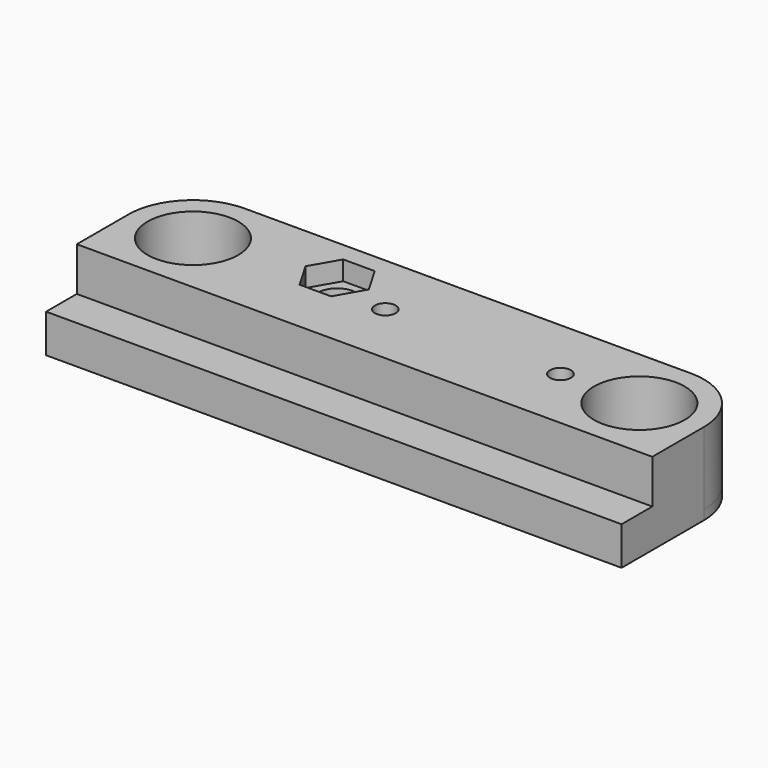
from build123d import *

# Parameters (mm, degrees)
F0_W      = 95.1874652
F0_H      = 27.6999954
F0_R      = 6.7062477
F1_DEPTH  = 1.5875
F2_R      = 10.6749977
F3_R      = 7.5
F4_DEPTH  = 12
F5_DEPTH  = 4.7625
F6_R      = 1.7272
F6_R_2    = 3.175
F7_DEPTH  = 13.5875
F8_R      = 3.96875
F9_DEPTH  = 7.2375014
F11_DEPTH = 3.175


with BuildPart() as f1:
    # F0 (on Top) → F1 (new body)
    with BuildSketch(Plane.XY):
        with Locations((47.5937326, -13.8499977)):
            Rectangle(F0_W, F0_H)
        with Locations((10.6749977, -10.6749977)):
            Circle(F0_R, mode=Mode.SUBTRACT)
        with Locations((84.5124675, -10.6749977)):
            Circle(F0_R, mode=Mode.SUBTRACT)
    extrude(amount=F1_DEPTH)

    # F2
    f2_edges = [f1.edges().sort_by_distance(p)[0] for p in [
        (0, 0, 0.79375),
        (95.187465, 0, 0.79375),
    ]]
    fillet(f2_edges, radius=F2_R)

    # F3 (on face) → F4 (join)
    with BuildSketch(Plane.XY.offset(1.5875)):
        with BuildLine():
            Line((0, -10.6749977), (0, -21.3499954))
            Line((0, -21.3499954), (95.1874652, -21.3499954))
            Line((95.1874652, -21.3499954), (95.1874652, -10.6749977))
            ThreePointArc((95.1874652, -10.6749977), (92.0608307628, -3.1266344372), (84.5124675, 0))
            Line((84.5124675, 0), (10.6749977, 0))
            ThreePointArc((10.6749977, 0), (3.1266344372, -3.1266344372), (0, -10.6749977))
        make_face()
        with Locations((10.6749977, -10.6749977)):
            Circle(F3_R, mode=Mode.SUBTRACT)
        with Locations((84.5124675, -10.6749977)):
            Circle(F3_R, mode=Mode.SUBTRACT)
    extrude(amount=F4_DEPTH)

    # F5 (add): a face of the model
    f5_faces = [f1.faces().sort_by_distance(p)[0] for p in [
        (47.5937326, -24.5249954, 1.5875),
    ]]
    extrude(f5_faces, amount=F5_DEPTH)

    # F6 (on face) → F7 (cut, through all)
    with BuildSketch(Plane.XY.offset(13.5875)):
        with Locations((42.4937295646, -10.6749977)):
            Circle(F6_R)
        with Locations((71.4562175, -10.6749977)):
            Circle(F6_R)
        with Locations((32.1375151, -7.6956539)):
            Circle(F6_R_2)
    extrude(amount=-F7_DEPTH, mode=Mode.SUBTRACT)

    # F8 (on face) → F9 (cut)
    with BuildSketch(Plane(origin=(0, 0, 0), x_dir=(1, 0, 0), z_dir=(0, 0, -1))):
        with Locations((71.4562175, 10.6749977)):
            Circle(F8_R)
        with Locations((42.4937295646, 10.6749977)):
            Circle(F8_R)
    extrude(amount=-F9_DEPTH, mode=Mode.SUBTRACT)

    # F10 (on face) → F11 (cut)
    with BuildSketch(Plane.XY.offset(13.5875)):
        Polygon((34.7475158461, -3.175), (29.5275143539, -3.175), (26.9175136078, -7.6956539), (29.5275143539, -12.2163078), (34.7475158461, -12.2163078), (37.3575165922, -7.6956539), align=None)
    extrude(amount=-F11_DEPTH, mode=Mode.SUBTRACT)


solid = f1.part
